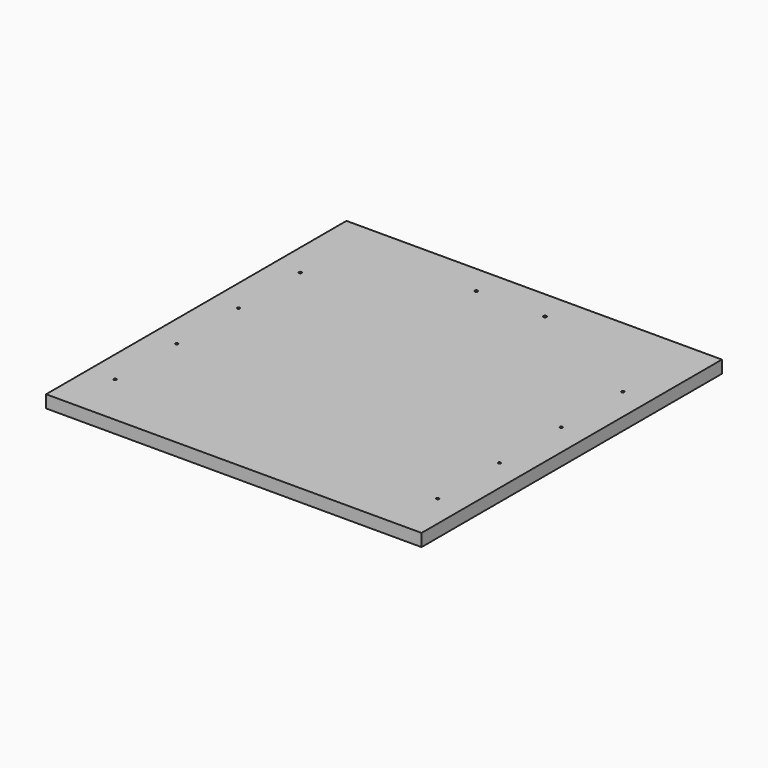
from build123d import *

# Parameters (mm, degrees)
F1_DEPTH = 20
F2_D     = 5
F3_D     = 4.2


with BuildPart() as f1:
    # F0 (on Top) → F1 (new body)
    with BuildSketch(Plane.XY):
        Polygon((-122.8932932019, 557.9938352108), (-722.8932932019, 557.9938352108), (-722.8932932019, -42.0061647892), (-422.8932932019, -42.0061647892), (-122.8932932019, -42.0061647892), align=None)
        Polygon((-122.8932932019, 557.9938352108), (-722.8932932019, 557.9938352108), (-722.8932932019, -42.0061647892), (-422.8932932019, -42.0061647892), (-122.8932932019, -42.0061647892), align=None)
    extrude(amount=F1_DEPTH)

    # F2 (through all)
    with Locations(Plane(origin=(0, 0, 0), x_dir=(1, 0, 0), z_dir=(0, 0, -1))):
        with Locations((-477.8932932019, -510.9938352108), (-367.8932932019, -510.9938352108)):
            Hole(F2_D / 2)

    # F3 (through all)
    with Locations(Plane(origin=(0, 0, 0), x_dir=(1, 0, 0), z_dir=(0, 0, -1))):
        with Locations((-680.6432932019, -412.9938352108), (-680.6432932019, -289.6938352108), (-680.6432932019, -166.3938352108), (-680.6432932019, -43.0938352108), (-165.1432932019, -43.0969782174), (-165.1432932019, -166.3938352108), (-165.1432932019, -289.6938352108), (-165.1432932019, -412.9938352108)):
            Hole(F3_D / 2)


solid = f1.part
